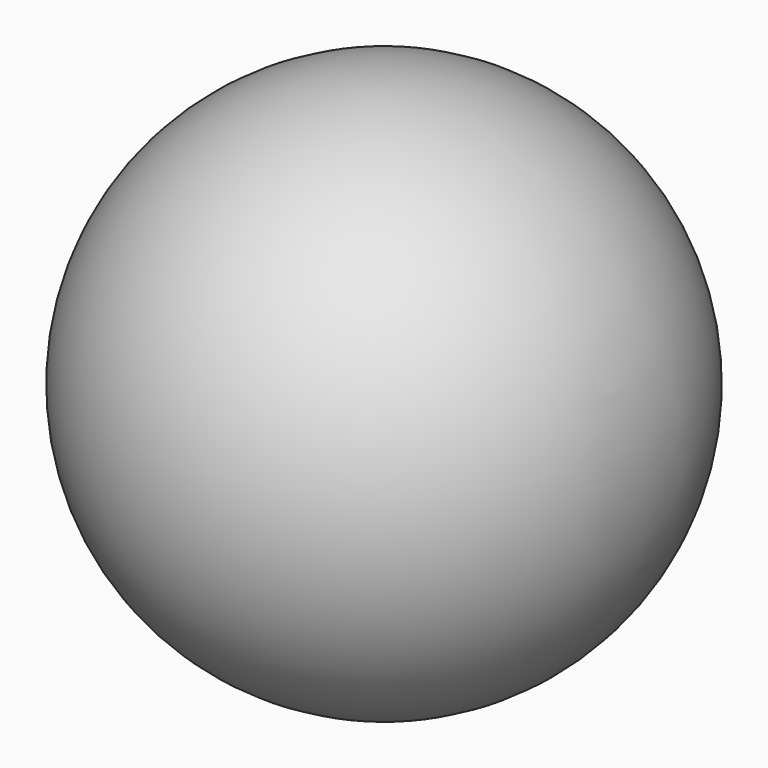
from build123d import *


with BuildPart() as part:
    # Sphere → Sphere (revolve)
    with BuildSketch(Plane.XZ):
        with BuildLine():
            ThreePointArc((0, -15), (15, 0), (0, 15))
            Line((0, 15), (0, -15))
        make_face()
    revolve(axis=Axis((0, 0, 0), (0, 0, 1)))


solid = part.part
